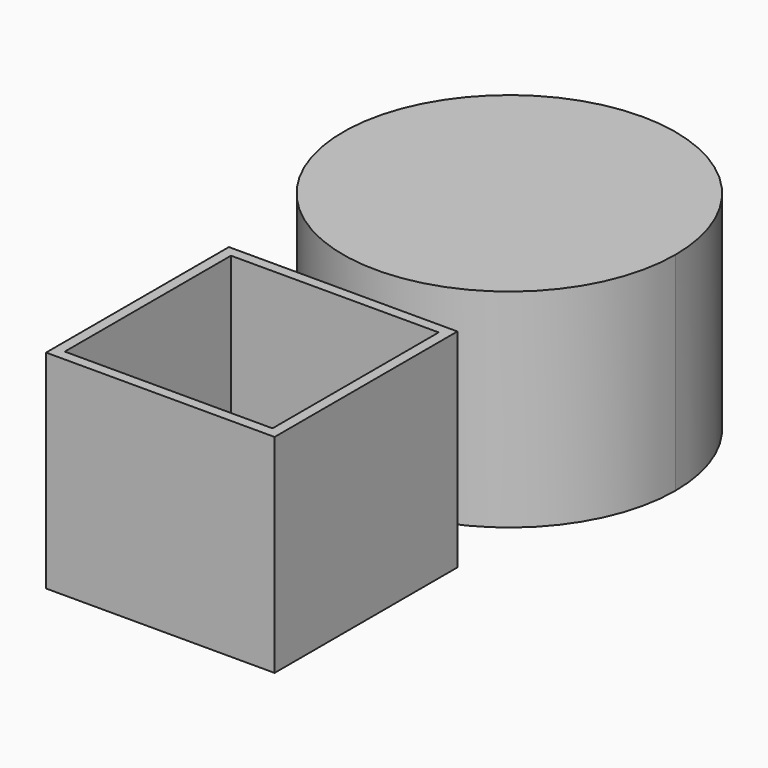
from build123d import *

# Parameters (mm, degrees)
F0_W     = 27.5
F0_H     = 27.5
F0_W_2   = 25
F0_H_2   = 25
F1_DEPTH = 25


with BuildPart() as f1:
    # F0 (on Top) → F1 (new body)
    with BuildSketch(Plane.XY):
        with BuildLine():
            ThreePointArc((0, 58.75), (-14.142136, 24.607864), (20, 38.75))
            ThreePointArc((20, 38.75), (14.142136, 52.892136), (0, 58.75))
        make_face()
        Rectangle(F0_W, F0_H)
        Rectangle(F0_W_2, F0_H_2, mode=Mode.SUBTRACT)
    extrude(amount=F1_DEPTH)


solid = f1.part
